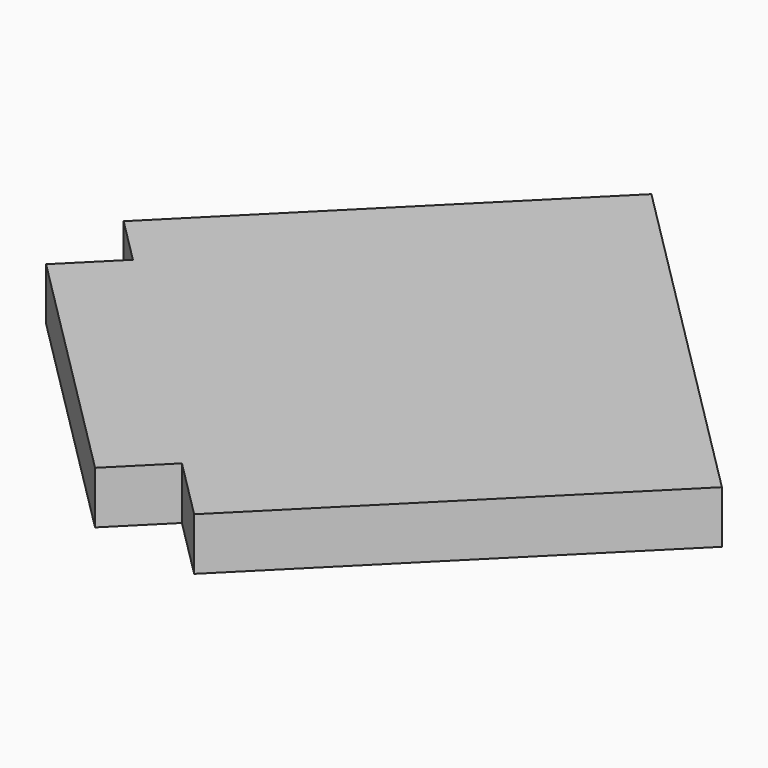
from build123d import *

# Parameters (mm, degrees)
BOX047_W               = 26
BOX047_H               = 132
BOX047_DEPTH           = 20
BOX047_PLACEMENT_ANGLE = 135
BOX046_W               = 190
BOX046_H               = 158
BOX046_DEPTH           = 20
BOX046_PLACEMENT_ANGLE = 315


with BuildPart() as cube009:
    # Box047 → Box047 (new body)
    with BuildSketch(Plane.XY):
        with Locations((13, 66)):
            Rectangle(BOX047_W, BOX047_H)
    extrude(amount=BOX047_DEPTH)


with BuildPart() as cube009_1:
    # Box047 placement: moved
    add(cube009.part.moved(Location((50.558135, -94.102291, 40.5))).rotate(Axis((50.558135, -94.102291, 40.5), (0, 0, -1)), BOX047_PLACEMENT_ANGLE))


with BuildPart() as fusion012:
    # Box046 → Box046 (new body)
    with BuildSketch(Plane.XY):
        with Locations((95, 79)):
            Rectangle(BOX046_W, BOX046_H)
    extrude(amount=BOX046_DEPTH)


with BuildPart() as fusion012_1:
    # Box046 placement: moved
    add(fusion012.part.moved(Location((32.880465, -76.424621, 40.5))).rotate(Axis((32.880465, -76.424621, 40.5), (0, 0, 1)), BOX046_PLACEMENT_ANGLE))

    # Fusion012: union Cube009
    add(cube009_1.part)


solid = fusion012_1.part
